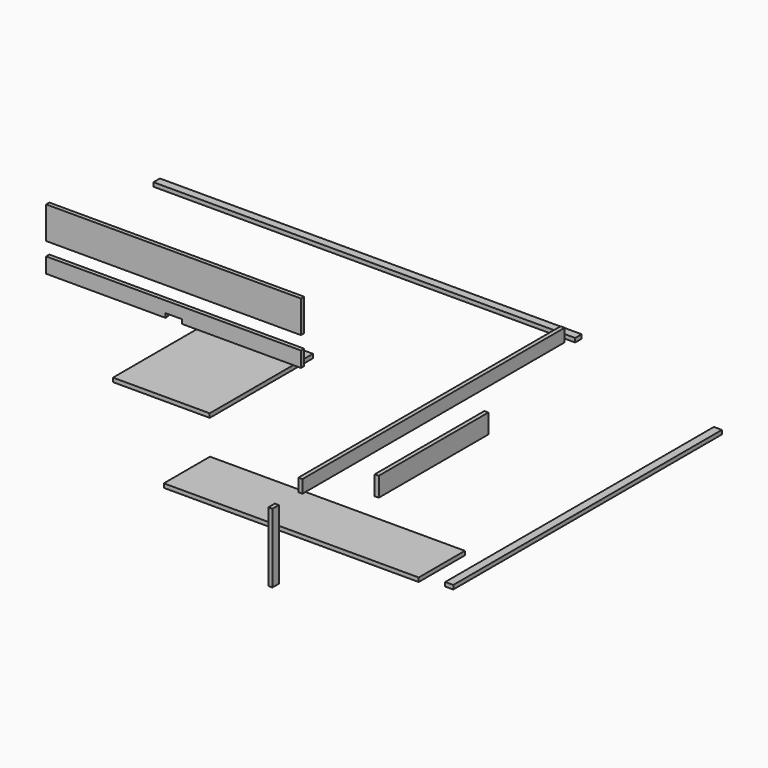
from build123d import *

# Parameters (mm, degrees)
F0_W     = 50
F0_H     = 430
F0_W_2   = 2033
F0_H_2   = 80
F0_W_3   = 850
F0_H_3   = 120
F1_DEPTH = 25
F2_W     = 1581
F2_H     = 358
F2_W_2   = 600
F2_H_2   = 800
F3_DEPTH = 25
F4_W     = 1581
F4_H     = 200
F5_DEPTH = 25
F6_W     = 50
F6_H     = 2083
F6_W_2   = 2615.614325
F6_H_2   = 50
F7_DEPTH = 25


with BuildPart() as f1:
    # F0 (on Right) → F1 (new body)
    with BuildSketch(Plane.YZ):
        with Locations((-1224.584521, 0)):
            Rectangle(F0_W, F0_H)
        with Locations((0, 242.416835)):
            Rectangle(F0_W_2, F0_H_2)
        Rectangle(F0_W_3, F0_H_3)
    extrude(amount=F1_DEPTH)


with BuildPart() as f3:
    # F2 (on Top) → F3 (new body)
    with BuildSketch(Plane.XY):
        with Locations((9.903193, -905.566842)):
            Rectangle(F2_W, F2_H)
        with Locations((-1365.513167, 27.682989)):
            Rectangle(F2_W_2, F2_H_2)
    extrude(amount=F3_DEPTH)


with BuildPart() as f5:
    # F4 (on Front) → F5 (new body)
    with BuildSketch(Plane.XZ):
        with Locations((-1567.942509, 504.158258)):
            Rectangle(F4_W, F4_H)
        Polygon((-1516.942509, 225.304886), (-777.442509, 225.304886), (-777.442509, 320.304886), (-2358.442509, 320.304886), (-2358.442509, 225.304886), (-1618.942509, 225.304886), (-1618.942509, 251.304886), (-1567.942509, 251.304886), (-1516.942509, 251.304886), align=None)
    extrude(amount=F5_DEPTH)


with BuildPart() as f7:
    # F6 (on Top) → F7 (new body)
    with BuildSketch(Plane.XY):
        with Locations((955.265677, 0)):
            Rectangle(F6_W, F6_H)
        with Locations((-1484.945894, 1375.520134)):
            Rectangle(F6_W_2, F6_H_2)
    extrude(amount=F7_DEPTH)


solid = Compound([f1.part, f3.part, f5.part, f7.part])
